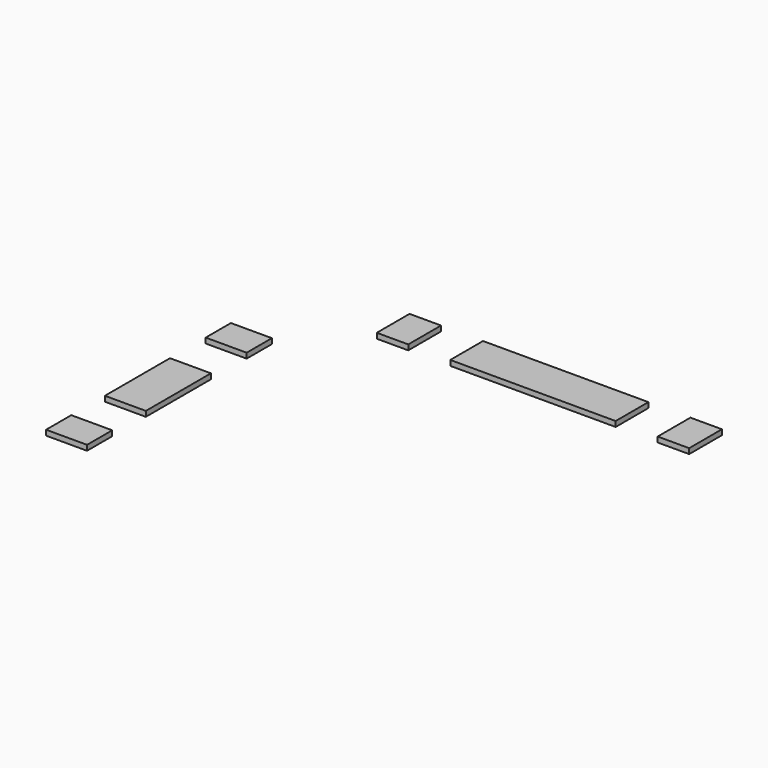
from build123d import *

# Parameters (mm, degrees)
BOX007_W     = 7.8
BOX007_H     = 6
BOX007_DEPTH = 1
BOX006_W     = 7.8
BOX006_H     = 6
BOX006_DEPTH = 1
BOX005_W     = 31.5
BOX005_H     = 7.8
BOX005_DEPTH = 1
BOX004_W     = 6
BOX004_H     = 7.8
BOX004_DEPTH = 1
BOX003_W     = 6
BOX003_H     = 7.8
BOX003_DEPTH = 1
BOX008_W     = 7.8
BOX008_H     = 15.5
BOX008_DEPTH = 1


with BuildPart() as cube007:
    # Box007 → Box007 (new body)
    with BuildSketch(Plane(origin=(-18.9, -44, 29), x_dir=(1, 0, 0), z_dir=(0, 0, 1))):
        with Locations((3.9, 3)):
            Rectangle(BOX007_W, BOX007_H)
    extrude(amount=BOX007_DEPTH)


with BuildPart() as cube006:
    # Box006 → Box006 (new body)
    with BuildSketch(Plane(origin=(-18.9, -6, 29), x_dir=(1, 0, 0), z_dir=(0, 0, 1))):
        with Locations((3.9, 3)):
            Rectangle(BOX006_W, BOX006_H)
    extrude(amount=BOX006_DEPTH)


with BuildPart() as cube005:
    # Box005 → Box005 (new body)
    with BuildSketch(Plane(origin=(14, 11.1, 29), x_dir=(1, 0, 0), z_dir=(0, 0, 1))):
        with Locations((15.75, 3.9)):
            Rectangle(BOX005_W, BOX005_H)
    extrude(amount=BOX005_DEPTH)


with BuildPart() as cube004:
    # Box004 → Box004 (new body)
    with BuildSketch(Plane(origin=(53.5, 11.1, 29), x_dir=(1, 0, 0), z_dir=(0, 0, 1))):
        with Locations((3, 3.9)):
            Rectangle(BOX004_W, BOX004_H)
    extrude(amount=BOX004_DEPTH)


with BuildPart() as cube003:
    # Box003 → Box003 (new body)
    with BuildSketch(Plane(origin=(0, 11.1, 29), x_dir=(1, 0, 0), z_dir=(0, 0, 1))):
        with Locations((3, 3.9)):
            Rectangle(BOX003_W, BOX003_H)
    extrude(amount=BOX003_DEPTH)


with BuildPart() as mounting_tab:
    # Box008 → Box008 (new body)
    with BuildSketch(Plane(origin=(-18.9, -30, 29), x_dir=(1, 0, 0), z_dir=(0, 0, 1))):
        with Locations((3.9, 7.75)):
            Rectangle(BOX008_W, BOX008_H)
    extrude(amount=BOX008_DEPTH)

    # Fusion006002011004053036004001003: union Cube007, Cube006, Cube005, Cube004, Cube003
    add(cube007.part)
    add(cube006.part)
    add(cube005.part)
    add(cube004.part)
    add(cube003.part)


solid = mounting_tab.part
